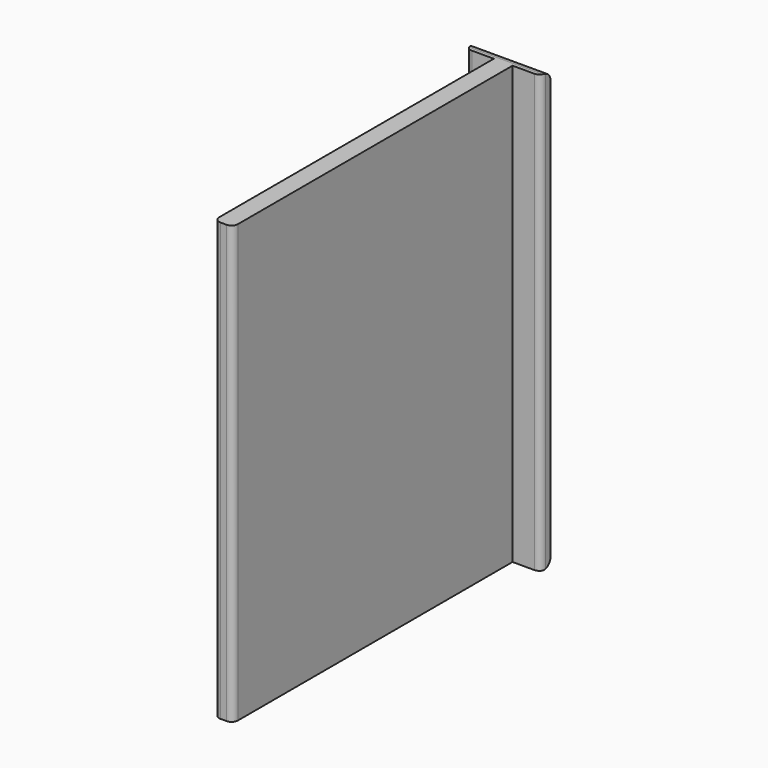
from build123d import *

# Parameters (mm, degrees)
F0_W     = 2.25
F0_H     = 35
F0_W_2   = 1.5
F1_DEPTH = 1
F2_DEPTH = 28
F3_R     = 0.5
F4_R     = 0.75


with BuildPart() as f1:
    # F0 (on Front) → F1 (new body)
    with BuildSketch(Plane.XZ):
        with Locations((1.875, 0)):
            Rectangle(F0_W, F0_H)
        Rectangle(F0_W_2, F0_H)
        with Locations((-1.875, 0)):
            Rectangle(F0_W, F0_H)
    extrude(amount=-F1_DEPTH)

    # F0 (on Front) → F2 (join)
    with BuildSketch(Plane.XZ):
        Rectangle(F0_W_2, F0_H)
    extrude(amount=F2_DEPTH)

    # F3
    f3_edges = [f1.edges().sort_by_distance(p)[0] for p in [
        (-3, 0, 0),
        (3, 0, 0),
        (-0.75, -28, 0),
        (0.75, -28, 0),
    ]]
    fillet(f3_edges, radius=F3_R)

    # F4
    f4_edges = [f1.edges().sort_by_distance(p)[0] for p in [
        (0, 1, 17.5),
        (0, 1, -17.5),
    ]]
    fillet(f4_edges, radius=F4_R)


solid = f1.part
